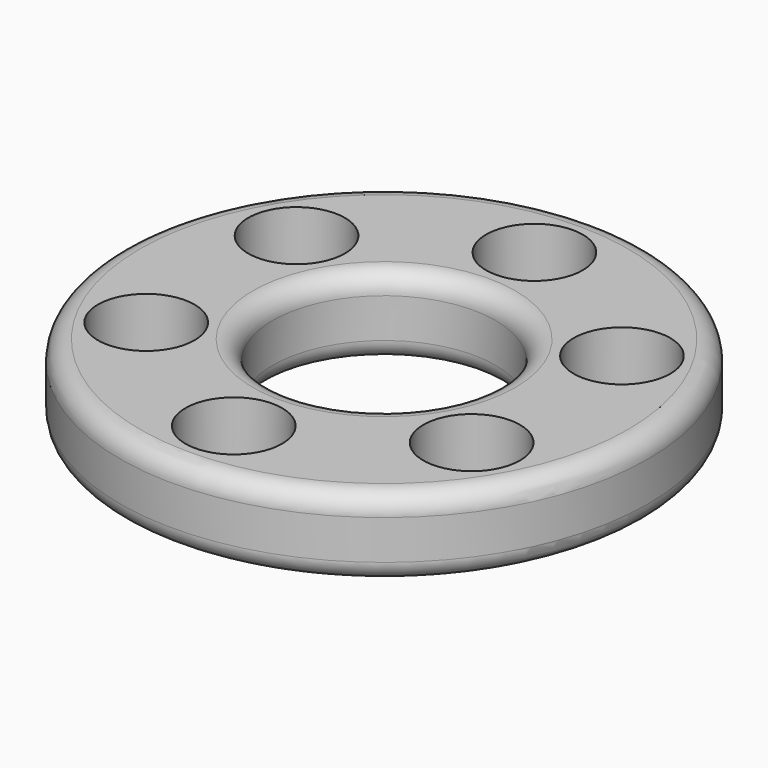
from build123d import *

# Parameters (mm, degrees)
F0_R     = 26.761417
F0_R_2   = 4.9
F0_R_3   = 11.3
F1_DEPTH = 8
F2_R     = 2


with BuildPart() as f1:
    # F0 (on Top) → F1 (new body)
    with BuildSketch(Plane.XY):
        Circle(F0_R)
        with Locations((-16.497784, -9.525)):
            Circle(F0_R_2, mode=Mode.SUBTRACT)
        with Locations((0, -19.05)):
            Circle(F0_R_2, mode=Mode.SUBTRACT)
        with Locations((16.497784, -9.525)):
            Circle(F0_R_2, mode=Mode.SUBTRACT)
        with Locations((-16.497784, 9.525)):
            Circle(F0_R_2, mode=Mode.SUBTRACT)
        Circle(F0_R_3, mode=Mode.SUBTRACT)
        with Locations((16.497784, 9.525)):
            Circle(F0_R_2, mode=Mode.SUBTRACT)
        with Locations((0, 19.05)):
            Circle(F0_R_2, mode=Mode.SUBTRACT)
    extrude(amount=F1_DEPTH)

    # F2
    f2_edges = [f1.edges().sort_by_distance(p)[0] for p in [
        (-11.3, 0, 8),
        (-11.3, 0, 0),
        (-26.761417, 0, 0),
        (-26.761417, 0, 8),
    ]]
    fillet(f2_edges, radius=F2_R)


solid = f1.part
